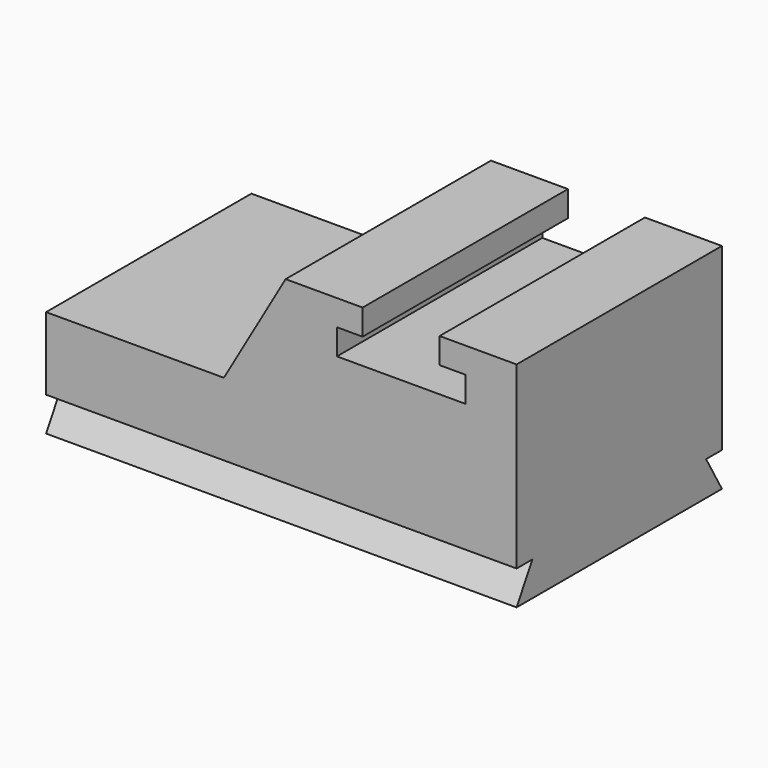
from build123d import *

# Parameters (mm, degrees)
F0_W     = 2794
F0_H     = 1270
F1_DEPTH = 1524
F3_DEPTH = 1524.001
F5_DEPTH = 1524.001
F7_DEPTH = 2794.001
F9_DEPTH = 2794.001


with BuildPart() as f1:
    # F0 (on Front) → F1 (new body)
    with BuildSketch(Plane.XZ):
        with Locations((1397, 635)):
            Rectangle(F0_W, F0_H)
    extrude(amount=F1_DEPTH)

    # F2 (on face) → F3 (cut, through all)
    with BuildSketch(Plane.XZ.offset(1524)):
        Polygon((1055.782579, 635), (1422.4, 1270), (0, 1270), (0, 635), align=None)
    extrude(amount=-F3_DEPTH, mode=Mode.SUBTRACT)

    # F4 (on face) → F5 (cut, through all)
    with BuildSketch(Plane.XZ.offset(1524)):
        Polygon((2336.8, 1117.6), (2336.8, 1270), (1879.6, 1270), (1879.6, 1117.6), (1727.2, 1117.6), (1727.2, 965.2), (2489.2, 965.2), (2489.2, 1117.6), align=None)
    extrude(amount=-F5_DEPTH, mode=Mode.SUBTRACT)

    # F6 (on face) → F7 (cut, through all)
    with BuildSketch(Plane(origin=(0, 0, 0), x_dir=(0, -1, 0), z_dir=(-1, 0, 0))):
        Polygon((1406.682425, 203.2), (1524, 0), (1524, 203.2), align=None)
    extrude(amount=-F7_DEPTH, mode=Mode.SUBTRACT)

    # F8 (on face) → F9 (cut, through all)
    with BuildSketch(Plane(origin=(0, 0, 0), x_dir=(0, -1, 0), z_dir=(-1, 0, 0))):
        Polygon((0, 203.2), (0, 0), (117.317575, 203.2), align=None)
    extrude(amount=-F9_DEPTH, mode=Mode.SUBTRACT)


solid = f1.part
